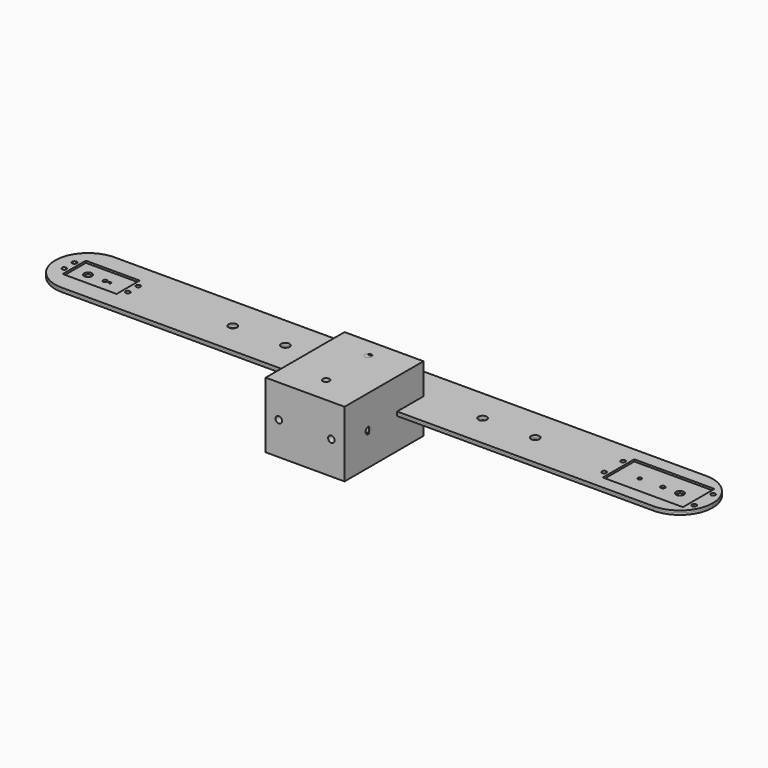
from build123d import *

# Parameters (mm, degrees)
F0_R      = 3.2
F0_R_2    = 1.7
F0_W      = 61
F0_H      = 30
F1_DEPTH  = 1.5
F2_R      = 1.7
F2_R_2    = 1.6
F2_R_3    = 0.9
F2_R_4    = 3
F2_R_5    = 1.45
F2_R_6    = 3.2
F3_DEPTH  = 1.5
F4_W      = 60
F4_H      = 50
F5_DEPTH  = 51.6
F6_W      = 60
F6_H      = 50
F7_DEPTH  = 75
F8_R      = 1.5
F9_DEPTH  = 22.5
F10_R     = 0.5
F11_R     = 1.5
F12_DEPTH = 22.5
F13_R     = 0.5
F15_D     = 5
F15_DEPTH = 15
F15_TIP   = 1.5021515476
F17_D     = 5
F17_DEPTH = 15
F17_TIP   = 1.5021515476
F19_D     = 5
F19_DEPTH = 15
F19_TIP   = 1.5021515476
F21_D     = 5
F21_DEPTH = 15
F21_TIP   = 1.5021515476
F22_D     = 5
F22_DEPTH = 15
F22_TIP   = 1.5021515476
F24_D     = 5
F24_DEPTH = 15
F24_TIP   = 1.5021515476
F25_D     = 5
F25_DEPTH = 15
F25_TIP   = 1.5021515476
F27_D     = 5
F27_DEPTH = 15
F27_TIP   = 1.5021515476
F28_R     = 0.5


with BuildPart() as f1:
    # F0 (on Top) → F1 (new body)
    with BuildSketch(Plane.XY):
        with BuildLine():
            ThreePointArc((250, 0), (242.6776695297, 17.6776695297), (225, 25))
            Line((225, 25), (0, 25))
            Line((0, 25), (0, -25))
            Line((0, -25), (225, -25))
            ThreePointArc((225, -25), (242.6776695297, -17.6776695297), (250, 0))
        make_face()
        with Locations((75, 0)):
            Circle(F0_R, mode=Mode.SUBTRACT)
        with Locations((115, 0)):
            Circle(F0_R, mode=Mode.SUBTRACT)
        with Locations((174.575, -9)):
            Circle(F0_R_2, mode=Mode.SUBTRACT)
        with Locations((243.075, -9)):
            Circle(F0_R_2, mode=Mode.SUBTRACT)
        with Locations((208.825, 0)):
            Rectangle(F0_W, F0_H, mode=Mode.SUBTRACT)
        with Locations((174.575, 9)):
            Circle(F0_R_2, mode=Mode.SUBTRACT)
        with Locations((243.075, 9)):
            Circle(F0_R_2, mode=Mode.SUBTRACT)
        with BuildLine():
            Line((0, -25), (0, 25))
            Line((0, 25), (-225, 25))
            ThreePointArc((-225, 25), (-242.6776695297, 17.6776695297), (-250, 0))
            ThreePointArc((-250, 0), (-242.6776695297, -17.6776695297), (-225, -25))
            Line((-225, -25), (0, -25))
        make_face()
        with Locations((-239.3, -4.9)):
            Circle(F0_R_2, mode=Mode.SUBTRACT)
        with Locations((-190.8, -4.9)):
            Circle(F0_R_2, mode=Mode.SUBTRACT)
        Polygon((-235.55, -11), (-235.55, 11), (-215.05, 11), (-194.55, 11), (-194.55, -11), (-215.05, -11), align=None, mode=Mode.SUBTRACT)
        with Locations((-115, 0)):
            Circle(F0_R, mode=Mode.SUBTRACT)
        with Locations((-75, 0)):
            Circle(F0_R, mode=Mode.SUBTRACT)
        with Locations((-239.3, 4.9)):
            Circle(F0_R_2, mode=Mode.SUBTRACT)
        with Locations((-190.8, 4.9)):
            Circle(F0_R_2, mode=Mode.SUBTRACT)
    extrude(amount=F1_DEPTH)

    # F28
    f28_edges = [f1.edges().sort_by_distance(p)[0] for p in [
        (-235.55, 11, 0.75),
        (-235.55, -11, 0.75),
        (-194.55, -11, 0.75),
        (-194.55, 11, 0.75),
        (178.325, 15, 0.75),
        (178.325, -15, 0.75),
        (239.325, -15, 0.75),
        (239.325, 15, 0.75),
    ]]
    fillet(f28_edges, radius=F28_R)


with BuildPart() as f3:
    # F2 (on Top) → F3 (new body)
    with BuildSketch(Plane.XY):
        with BuildLine():
            Line((-225, -25), (225, -25))
            ThreePointArc((225, -25), (242.6776695297, -17.6776695297), (250, 0))
            ThreePointArc((250, 0), (242.6776695297, 17.6776695297), (225, 25))
            Line((225, 25), (-225, 25))
            ThreePointArc((-225, 25), (-242.6776695297, 17.6776695297), (-250, 0))
            ThreePointArc((-250, 0), (-242.6776695297, -17.6776695297), (-225, -25))
        make_face()
        with Locations((-239.3, -4.9)):
            Circle(F2_R, mode=Mode.SUBTRACT)
        with Locations((-190.8, -4.9)):
            Circle(F2_R, mode=Mode.SUBTRACT)
        with Locations((174.575, -9)):
            Circle(F2_R, mode=Mode.SUBTRACT)
        with Locations((243.075, -9)):
            Circle(F2_R_2, mode=Mode.SUBTRACT)
        with Locations((-241.5, 0)):
            Circle(F2_R_3, mode=Mode.SUBTRACT)
        with Locations((-225, 0)):
            Circle(F2_R_4, mode=Mode.SUBTRACT)
        with Locations((-212.1, 0)):
            Circle(F2_R_2, mode=Mode.SUBTRACT)
        with Locations((-208.5, 0)):
            Circle(F2_R_3, mode=Mode.SUBTRACT)
        with Locations((-194.55, 0)):
            Circle(F2_R_5, mode=Mode.SUBTRACT)
        with Locations((-239.3, 4.9)):
            Circle(F2_R, mode=Mode.SUBTRACT)
        with Locations((-190.8, 4.9)):
            Circle(F2_R, mode=Mode.SUBTRACT)
        with Locations((-115, 0)):
            Circle(F2_R_6, mode=Mode.SUBTRACT)
        with Locations((-75, 0)):
            Circle(F2_R_6, mode=Mode.SUBTRACT)
        with Locations((75, 0)):
            Circle(F2_R_6, mode=Mode.SUBTRACT)
        with Locations((115, 0)):
            Circle(F2_R_6, mode=Mode.SUBTRACT)
        with Locations((194.55, 0)):
            Circle(F2_R_5, mode=Mode.SUBTRACT)
        with Locations((212.1, 0)):
            Circle(F2_R, mode=Mode.SUBTRACT)
        with Locations((225, 0)):
            Circle(F2_R_4, mode=Mode.SUBTRACT)
        with Locations((174.575, 9)):
            Circle(F2_R, mode=Mode.SUBTRACT)
        with Locations((243.075, 9)):
            Circle(F2_R, mode=Mode.SUBTRACT)
    extrude(amount=-F3_DEPTH)


with BuildPart() as f5:
    # F4 (on Front) → F5 (new body)
    with BuildSketch(Plane.XZ):
        Rectangle(F4_W, F4_H)
    extrude(amount=F5_DEPTH)

    # F15
    with Locations(Plane.XY.offset(25)):
        with Locations((0, -11.6), (0, -41.6)):
            Hole(F15_D / 2, depth=F15_DEPTH)
            with Locations((0, 0, -(F15_DEPTH + F15_TIP / 2))):  # 118° drill point
                Cone(0, F15_D / 2, F15_TIP, mode=Mode.SUBTRACT)

    # F17
    with Locations(Plane(origin=(-30, 0, 0), x_dir=(0, -1, 0), z_dir=(-1, 0, 0))):
        with Locations((25.8, 15), (25.8, -15)):
            Hole(F17_D / 2, depth=F17_DEPTH)
            with Locations((0, 0, -(F17_DEPTH + F17_TIP / 2))):  # 118° drill point
                Cone(0, F17_D / 2, F17_TIP, mode=Mode.SUBTRACT)

    # F22
    with Locations(Plane(origin=(0, 0, 0), x_dir=(1, 0, 0), z_dir=(0, 1, 0))):
        with Locations((-20, 0), (20, 0)):
            Hole(F22_D / 2, depth=F22_DEPTH)
            with Locations((0, 0, -(F22_DEPTH + F22_TIP / 2))):  # 118° drill point
                Cone(0, F22_D / 2, F22_TIP, mode=Mode.SUBTRACT)

    # F24
    with Locations(Plane.XZ.offset(51.6)):
        with Locations((-20, 0), (20, 0)):
            Hole(F24_D / 2, depth=F24_DEPTH)
            with Locations((0, 0, -(F24_DEPTH + F24_TIP / 2))):  # 118° drill point
                Cone(0, F24_D / 2, F24_TIP, mode=Mode.SUBTRACT)


with BuildPart() as f7:
    # F6 (on Front) → F7 (new body)
    with BuildSketch(Plane.XZ):
        Rectangle(F6_W, F6_H)
    extrude(amount=F7_DEPTH)

    # F19
    with Locations(Plane.XY.offset(25)):
        with Locations((0, -15), (0, -55)):
            Hole(F19_D / 2, depth=F19_DEPTH)
            with Locations((0, 0, -(F19_DEPTH + F19_TIP / 2))):  # 118° drill point
                Cone(0, F19_D / 2, F19_TIP, mode=Mode.SUBTRACT)

    # F21
    with Locations(Plane.YZ.offset(30)):
        with Locations((-22.5, 0), (-52.5, 0)):
            Hole(F21_D / 2, depth=F21_DEPTH)
            with Locations((0, 0, -(F21_DEPTH + F21_TIP / 2))):  # 118° drill point
                Cone(0, F21_D / 2, F21_TIP, mode=Mode.SUBTRACT)

    # F25
    with Locations(Plane(origin=(0, 0, 0), x_dir=(1, 0, 0), z_dir=(0, 1, 0))):
        with Locations((20, 0), (-20, 0)):
            Hole(F25_D / 2, depth=F25_DEPTH)
            with Locations((0, 0, -(F25_DEPTH + F25_TIP / 2))):  # 118° drill point
                Cone(0, F25_D / 2, F25_TIP, mode=Mode.SUBTRACT)

    # F27
    with Locations(Plane.XZ.offset(75)):
        with Locations((-20, 0), (20, 0)):
            Hole(F27_D / 2, depth=F27_DEPTH)
            with Locations((0, 0, -(F27_DEPTH + F27_TIP / 2))):  # 118° drill point
                Cone(0, F27_D / 2, F27_TIP, mode=Mode.SUBTRACT)


with BuildPart() as f9:
    # F8 (on Front) → F9 (new body, symmetric)
    with BuildSketch(Plane.XZ):
        Polygon((2.5, -1.443375673), (2.5, 1.443375673), (0, 2.8867513459), (-2.5, 1.443375673), (-2.5, -1.443375673), (0, -2.8867513459), align=None)
        Circle(F8_R, mode=Mode.SUBTRACT)
    extrude(amount=F9_DEPTH, both=True)

    # F10
    f10_edges = [f9.edges().sort_by_distance(p)[0] for p in [
        (-1.25, -22.5, 2.165064),
        (1.25, -22.5, 2.165064),
        (2.5, -22.5, 0),
        (1.25, -22.5, -2.165064),
        (-1.25, -22.5, -2.165064),
        (-2.5, -22.5, 0),
        (1.25, 22.5, 2.165064),
        (-1.25, 22.5, 2.165064),
        (-2.5, 22.5, 0),
        (-1.25, 22.5, -2.165064),
        (1.25, 22.5, -2.165064),
        (2.5, 22.5, 0),
    ]]
    fillet(f10_edges, radius=F10_R)


with BuildPart() as f12:
    # F11 (on Front) → F12 (new body, symmetric)
    with BuildSketch(Plane.XZ):
        Polygon((2.4994894442, 1.4442596206), (-0.001020799, 2.8867511655), (-2.5005102432, 1.4424915448), (-2.4994894442, -1.4442596206), (0.001020799, -2.8867511655), (2.5005102432, -1.4424915448), align=None)
        Circle(F11_R, mode=Mode.SUBTRACT)
    extrude(amount=F12_DEPTH, both=True)

    # F13
    f13_edges = [f12.edges().sort_by_distance(p)[0] for p in [
        (-1.250766, -22.5, 2.164621),
        (1.249234, -22.5, 2.165505),
        (2.5, -22.5, 0.000884),
        (1.250766, -22.5, -2.164621),
        (-1.249234, -22.5, -2.165505),
        (-2.5, -22.5, -0.000884),
        (1.249234, 22.5, 2.165505),
        (-1.250766, 22.5, 2.164621),
        (-2.5, 22.5, -0.000884),
        (-1.249234, 22.5, -2.165505),
        (1.250766, 22.5, -2.164621),
        (2.5, 22.5, 0.000884),
    ]]
    fillet(f13_edges, radius=F13_R)


solid = Compound([f1.part, f3.part, f5.part, f7.part, f9.part, f12.part])
